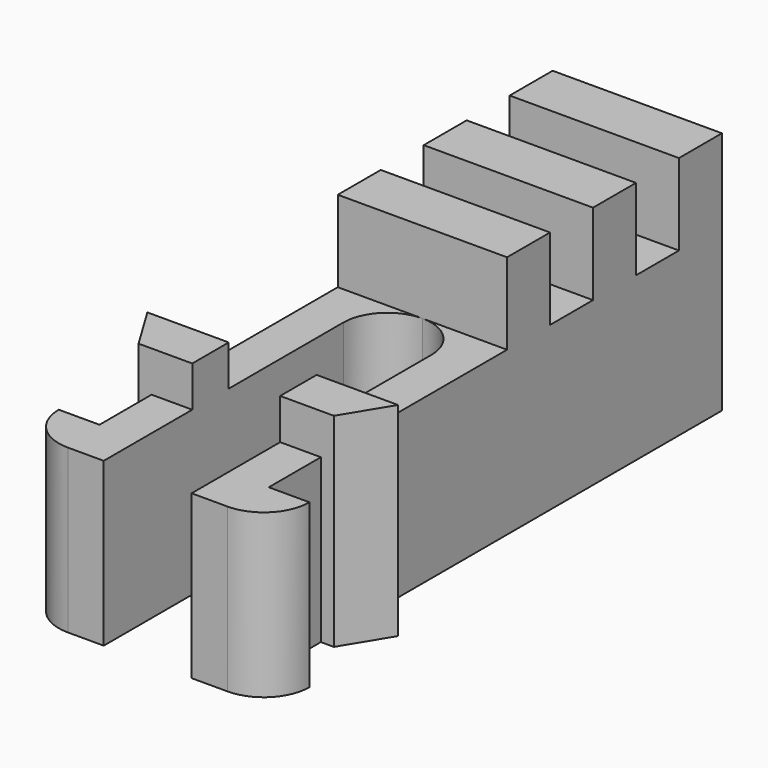
from build123d import *

# Parameters (mm, degrees)
PAD017_DEPTH           = 5
PAD020_DEPTH           = 6.25
SKETCH118_W            = 5.2
SKETCH118_H            = 1.65
PAD087_DEPTH           = 7.5
SKETCH116_W            = 5.2
SKETCH116_H            = 1.65
PAD088_DEPTH           = 5
SKETCH117_W            = 5.2
SKETCH117_H            = 1.65
PAD089_DEPTH           = 7.5
LINEARPATTERN028_COUNT = 2
LINEARPATTERN028_PITCH = 3.3


with BuildPart() as obj1:
    # Sketch034 → Pad017 (new body)
    with BuildSketch(Plane.XY):
        with BuildLine():
            Line((-1.35, -1.8), (-1.35, 6))
            ThreePointArc((0, 7.35), (-0.954594, 6.954594), (-1.35, 6))
            Line((0, 9), (0, 7.35))
            Line((-2.6, 9), (0, 9))
            Line((-2.6, -1.8), (-2.6, 9))
            Line((-3.85, -1.8), (-2.6, -1.8))
            ThreePointArc((-3.85, -1.8), (-3.439949, -2.789949), (-2.45, -3.2))
            Line((-1.35, -3.2), (-2.45, -3.2))
            Line((-1.35, -1.8), (-1.35, -3.2))
        make_face()
    extrude(amount=PAD017_DEPTH)

    # Sketch037 → Pad020 (join)
    with BuildSketch(Plane.XY):
        Polygon((-1.35, 0.2), (-1.35, 1.6), (-2.6, 1.6), (-3.85, 1.6), (-3, 0.2), (-2.6, 0.2), align=None)
    extrude(amount=PAD020_DEPTH)


with BuildPart() as obj2:
    # Mirror001: instance of _obj1
    add(obj1.part.mirror(Plane(origin=(0, 0, 0), x_dir=(0, 1, 0), z_dir=(-1, 0, 0))))


with BuildPart() as body044:
    # Fusion001 base: copy of _obj1
    add(obj1.part)

    # Fusion001: union _obj2)
    add(obj2.part)

    # Sketch118 → Pad087 (new body)
    with BuildSketch(Plane.XY):
        with Locations((0, 8.175)):
            Rectangle(SKETCH118_W, SKETCH118_H)
    extrude(amount=PAD087_DEPTH)

    # Sketch116 → Pad088 (join)
    with BuildSketch(Plane.XY):
        with Locations((0, 9.825)):
            Rectangle(SKETCH116_W, SKETCH116_H)
    pad088 = extrude(amount=PAD088_DEPTH)

    # Sketch117 → Pad089 (join)
    with BuildSketch(Plane.XY):
        with Locations((0, 11.475)):
            Rectangle(SKETCH117_W, SKETCH117_H)
    pad089 = extrude(amount=PAD089_DEPTH)

    # LinearPattern028: Pad089, Pad088 ×2
    with Locations(*[(0, i * LINEARPATTERN028_PITCH, 0) for i in range(1, LINEARPATTERN028_COUNT)]):
        add(pad089)
        add(pad088)


solid = body044.part
